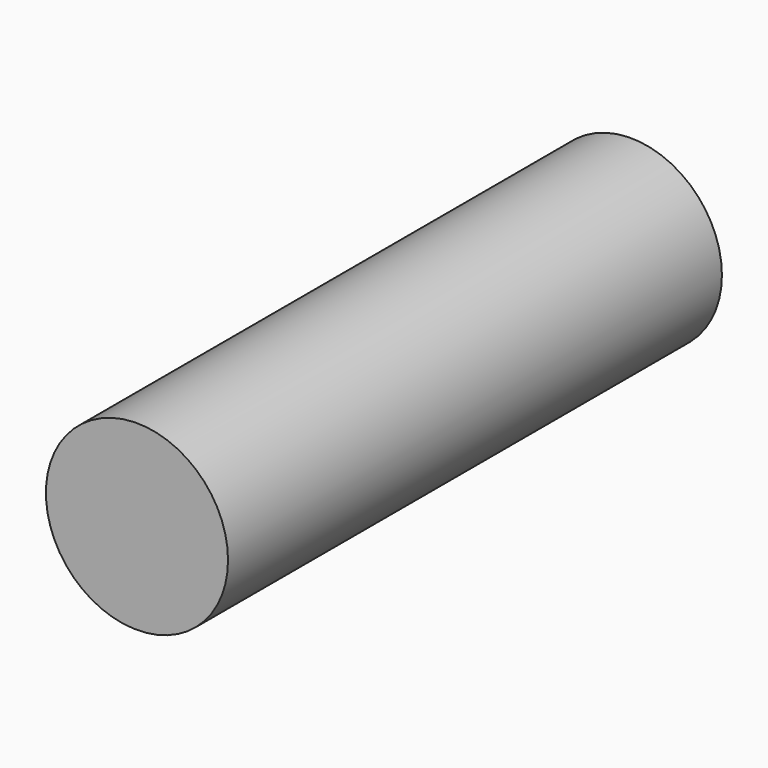
from build123d import *

# Parameters (mm, degrees)
F0_R     = 1.475
F1_DEPTH = 10
F3_DEPTH = 3


with BuildPart() as f1:
    # F0 (on Front) → F1 (new body)
    with BuildSketch(Plane.XZ):
        Circle(F0_R)
    extrude(amount=F1_DEPTH)

    # F2 (on face) → F3 (cut)
    with BuildSketch(Plane(origin=(0, 0, 0), x_dir=(-1, 0, 0), z_dir=(0, 1, 0))):
        Polygon((-1.073836, 0.037674), (-0.569545, -0.911132), (0.504291, -0.948806), (1.073836, -0.037674), (0.569545, 0.911132), (-0.504291, 0.948806), align=None)
    extrude(amount=-F3_DEPTH, mode=Mode.SUBTRACT)


solid = f1.part
